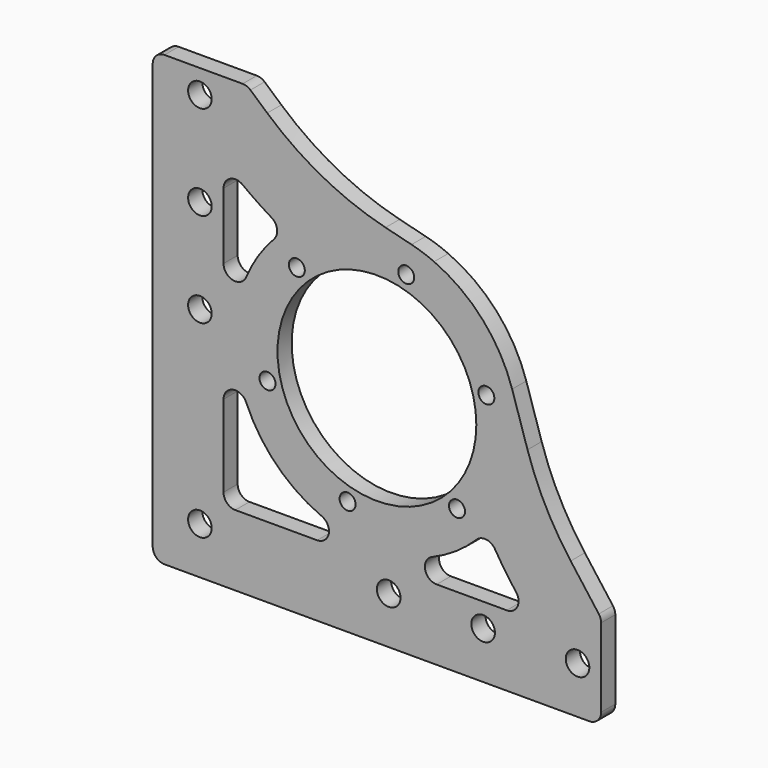
from build123d import *

# Parameters (mm, degrees)
F0_R     = 3.175
F0_R_2   = 2.15265
F0_R_3   = 26.7462
F1_DEPTH = 4.7625
F2_R     = 76.2
F3_R     = 3.175
F5_DEPTH = 4.7635


with BuildPart() as f1:
    # F0 (on Front) → F1 (new body)
    with BuildSketch(Plane.XZ):
        with BuildLine():
            Line((-20.125207, 63.858887), (-45.525207, 63.858887))
            Line((-45.525207, 63.858887), (-45.525207, -56.791113))
            Line((-45.525207, -56.791113), (75.124793, -56.791113))
            Line((75.124793, -56.791113), (75.124793, -31.391113))
            Line((75.124793, -31.391113), (59.224484, -10.158949))
            Line((59.224484, -10.158949), (51.176471, 15.116615))
            ThreePointArc((51.176471, 15.116615), (43.192477, 29.054031), (30.182356, 38.473821))
            ThreePointArc((30.182356, 38.473821), (27.19297, 39.642493), (24.115979, 40.55592))
            Line((24.115979, 40.55592), (-0.834672, 46.834476))
            Line((-0.834672, 46.834476), (-20.125207, 63.858887))
        make_face()
        with Locations((-32.825207, -44.091113)):
            Circle(F0_R, mode=Mode.SUBTRACT)
        with Locations((6.910989, -25.907532)):
            Circle(F0_R_2, mode=Mode.SUBTRACT)
        with Locations((-14.641626, -4.354918)):
            Circle(F0_R_2, mode=Mode.SUBTRACT)
        with Locations((17.974793, -44.091113)):
            Circle(F0_R, mode=Mode.SUBTRACT)
        with Locations((43.374793, -44.091113)):
            Circle(F0_R, mode=Mode.SUBTRACT)
        with Locations((68.774793, -44.091113)):
            Circle(F0_R, mode=Mode.SUBTRACT)
        with Locations((36.352408, -18.018728)):
            Circle(F0_R_2, mode=Mode.SUBTRACT)
        with Locations((-32.825207, 6.708887)):
            Circle(F0_R, mode=Mode.SUBTRACT)
        with Locations((-32.825207, 32.108887)):
            Circle(F0_R, mode=Mode.SUBTRACT)
        with Locations((-6.752821, 25.086501)):
            Circle(F0_R_2, mode=Mode.SUBTRACT)
        with Locations((-32.825207, 57.508887)):
            Circle(F0_R, mode=Mode.SUBTRACT)
        with Locations((14.799793, 3.533887)):
            Circle(F0_R_3, mode=Mode.SUBTRACT)
        with Locations((44.241213, 11.422691)):
            Circle(F0_R_2, mode=Mode.SUBTRACT)
        with Locations((22.688598, 32.975306)):
            Circle(F0_R_2, mode=Mode.SUBTRACT)
    extrude(amount=F1_DEPTH)

    # F2
    f2_edges = [f1.edges().sort_by_distance(p)[0] for p in [
        (-0.834672, -2.38125, 46.834476),
        (59.224484, -2.38125, -10.158949),
    ]]
    fillet(f2_edges, radius=F2_R)

    # F3
    f3_edges = [f1.edges().sort_by_distance(p)[0] for p in [
        (-45.525207, -2.38125, 63.858887),
        (-20.125207, -2.38125, 63.858887),
        (-45.525207, -2.38125, -56.791113),
        (75.124793, -2.38125, -31.391113),
        (75.124793, -2.38125, -56.791113),
    ]]
    fillet(f3_edges, radius=F3_R)

    # F4 (on face) → F5 (cut, through all)
    with BuildSketch(Plane.XZ.offset(4.7625)):
        with BuildLine():
            ThreePointArc((-12.90503, 29.799168), (-12.06269, 32.408274), (-13.566624, 34.700687))
            ThreePointArc((-13.566624, 34.700687), (-17.547135, 37.243821), (-21.396672, 39.981165))
            ThreePointArc((-21.396672, 39.981165), (-24.720929, 40.279463), (-26.475207, 37.440066))
            Line((-26.475207, 37.440066), (-26.475207, 19.605966))
            ThreePointArc((-26.475207, 19.605966), (-23.929722, 16.494), (-20.374838, 18.371931))
            ThreePointArc((-20.374838, 18.371931), (-17.154892, 24.422169), (-12.90503, 29.799168))
        make_face()
        with BuildLine():
            ThreePointArc((-26.475207, -34.566113), (-25.545271, -36.811177), (-23.300207, -37.741113))
            Line((-23.300207, -37.741113), (-1.272286, -37.741113))
            ThreePointArc((-1.272286, -37.741113), (1.83968, -35.195629), (-0.038251, -31.640745))
            ThreePointArc((-0.038251, -31.640745), (-12.194856, -23.460763), (-20.374838, -11.304157))
            ThreePointArc((-20.374838, -11.304157), (-23.929722, -9.426226), (-26.475207, -12.538193))
            Line((-26.475207, -12.538193), (-26.475207, -34.566113))
        make_face()
        with BuildLine():
            Line((52.277549, -32.662938), (51.688182, -31.875938))
            ThreePointArc((51.688182, -31.875938), (49.023348, -28.132604), (46.542146, -24.265108))
            ThreePointArc((46.542146, -24.265108), (44.219215, -22.76363), (41.600324, -23.653496))
            ThreePointArc((41.600324, -23.653496), (35.998656, -28.215609), (29.637837, -31.640745))
            ThreePointArc((29.637837, -31.640745), (27.759907, -35.195629), (30.871873, -37.741113))
            Line((30.871873, -37.741113), (49.736182, -37.741113))
            ThreePointArc((49.736182, -37.741113), (52.575478, -35.987036), (52.277549, -32.662938))
        make_face()
    extrude(amount=-F5_DEPTH, mode=Mode.SUBTRACT)


solid = f1.part
